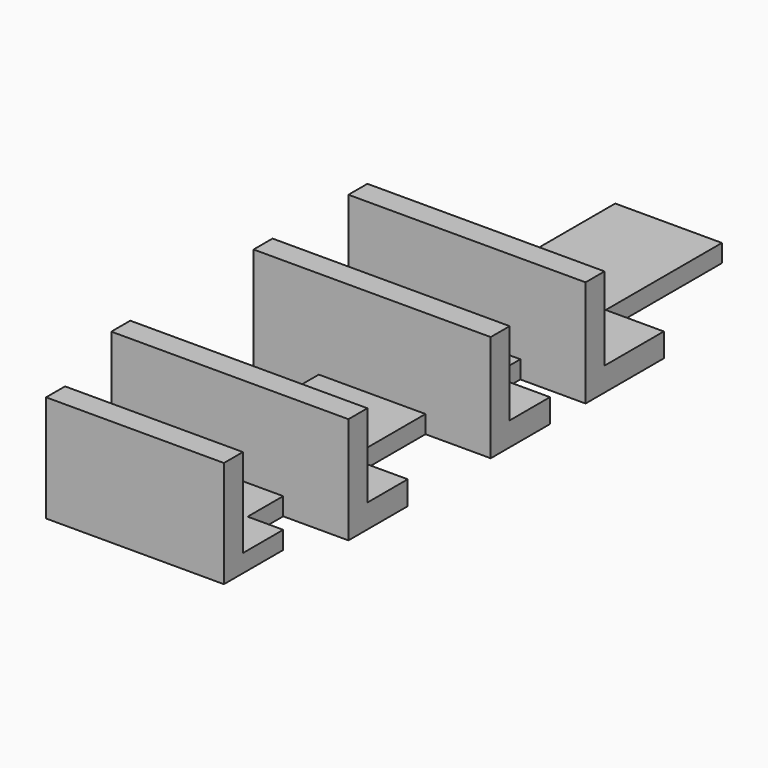
from build123d import *

# Parameters (mm, degrees)
F0_W      = 30
F0_H      = 18
F1_DEPTH  = 4
F2_W      = 30
F2_H      = 3
F3_DEPTH  = 8.5
F4_W      = 18
F4_H      = 3
F5_DEPTH  = 100
F7_START  = -20
F6_W      = 5
F6_H      = 18
F6_W_2    = 30
F7_DEPTH  = 4
F8_START  = -50
F6_W_3    = 40
F8_DEPTH  = 4
F9_START  = -70
F9_DEPTH  = 4
F10_W     = 40
F10_H     = 4
F11_DEPTH = 8.5
F12_W     = 40
F12_H     = 4
F13_DEPTH = 8.5
F14_W     = 40
F14_H     = 4
F15_DEPTH = 12.5


with BuildPart() as f1:
    # F0 (on Front) → F1 (new body)
    with BuildSketch(Plane.XZ):
        with Locations((0.2753492445, 6.5423582021)):
            Rectangle(F0_W, F0_H)
    extrude(amount=-F1_DEPTH)

    # F2 (on face) → F3 (join)
    with BuildSketch(Plane(origin=(0, 4, 0), x_dir=(-1, 0, 0), z_dir=(0, 1, 0))):
        with Locations((-0.2753492445, -0.9576417979)):
            Rectangle(F2_W, F2_H)
    extrude(amount=F3_DEPTH)

    # F4 (on face) → F5 (join)
    with BuildSketch(Plane(origin=(0, 12.5, 0), x_dir=(-1, 0, 0), z_dir=(0, 1, 0))):
        with Locations((-0.2753492445, -0.9576417979)):
            Rectangle(F4_W, F4_H)
    extrude(amount=F5_DEPTH)


with BuildPart() as f7:
    # F6 (on face) → F7 (new body)
    with BuildSketch(Plane.XZ.offset(F7_START)):
        with Locations((-17.2246507555, 6.5423582021)):
            Rectangle(F6_W, F6_H)
        with Locations((0.2753492445, 6.5423582021)):
            Rectangle(F6_W_2, F6_H)
        with Locations((17.7753492445, 6.5423582021)):
            Rectangle(F6_W, F6_H)
    extrude(amount=-F7_DEPTH)

    # F10 (on face) → F11 (join)
    with BuildSketch(Plane(origin=(0, 24, 0), x_dir=(-1, 0, 0), z_dir=(0, 1, 0))):
        with Locations((-0.2753492445, -0.4576417979)):
            Rectangle(F10_W, F10_H)
    extrude(amount=F11_DEPTH)


with BuildPart() as f8:
    # F6 (on face) → F8 (new body)
    with BuildSketch(Plane.XZ.offset(F8_START)):
        with Locations((0.2753492445, 6.5423582021)):
            Rectangle(F6_W_3, F6_H)
    extrude(amount=-F8_DEPTH)

    # F12 (on face) → F13 (join)
    with BuildSketch(Plane(origin=(0, 54, 0), x_dir=(-1, 0, 0), z_dir=(0, 1, 0))):
        with Locations((-0.2753492445, -0.4576417979)):
            Rectangle(F12_W, F12_H)
    extrude(amount=F13_DEPTH)


with BuildPart() as f9:
    # F6 (on face) → F9 (new body)
    with BuildSketch(Plane.XZ.offset(F9_START)):
        with Locations((0.2753492445, 6.5423582021)):
            Rectangle(F6_W_3, F6_H)
    extrude(amount=-F9_DEPTH)

    # F14 (on face) → F15 (join)
    with BuildSketch(Plane(origin=(0, 74, 0), x_dir=(-1, 0, 0), z_dir=(0, 1, 0))):
        with Locations((-0.2753492445, -0.4576417979)):
            Rectangle(F14_W, F14_H)
    extrude(amount=F15_DEPTH)


solid = Compound([f1.part, f7.part, f8.part, f9.part])
